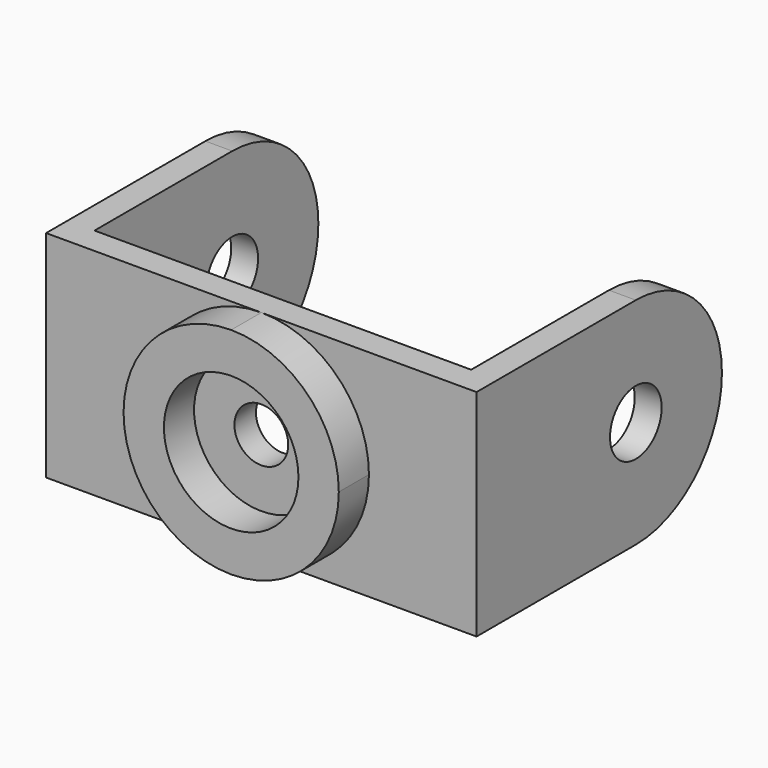
from build123d import *

# Parameters (mm, degrees)
F0_R     = 12.5
F1_DEPTH = 7
F0_R_2   = 5
F2_DEPTH = 5
F3_R     = 6
F4_DEPTH = 5
F5_R     = 6
F6_DEPTH = 5


with BuildPart() as f1:
    # F0 (on Front) → F1 (new body)
    with BuildSketch(Plane.XZ):
        with BuildLine():
            ThreePointArc((20, 0), (14.142136, 14.142136), (0, 20))
            ThreePointArc((0, 20), (-20, 0), (0, -20))
            ThreePointArc((0, -20), (14.142136, -14.142136), (20, 0))
        make_face()
        Circle(F0_R, mode=Mode.SUBTRACT)
    extrude(amount=F1_DEPTH)

    # F0 (on Front) → F2 (join)
    with BuildSketch(Plane.XZ):
        with BuildLine():
            ThreePointArc((0, -20), (-20, 0), (0, 20))
            Line((0, 20), (-40, 20))
            Line((-40, 20), (-40, -20))
            Line((-40, -20), (0, -20))
        make_face()
        with BuildLine():
            ThreePointArc((20, 0), (14.142136, 14.142136), (0, 20))
            ThreePointArc((0, 20), (-20, 0), (0, -20))
            ThreePointArc((0, -20), (14.142136, -14.142136), (20, 0))
        make_face()
        Circle(F0_R, mode=Mode.SUBTRACT)
        Circle(F0_R)
        Circle(F0_R_2, mode=Mode.SUBTRACT)
        with BuildLine():
            Line((40, -20), (40, 20))
            Line((40, 20), (0, 20))
            ThreePointArc((0, 20), (14.142136, 14.142136), (20, 0))
            ThreePointArc((20, 0), (14.142136, -14.142136), (0, -20))
            Line((0, -20), (40, -20))
        make_face()
    extrude(amount=-F2_DEPTH)

    # F3 (on face) → F4 (join)
    with BuildSketch(Plane.YZ.offset(40)):
        with BuildLine():
            Line((5, 20), (5, -20))
            Line((5, -20), (37, -20))
            ThreePointArc((37, -20), (57, 0), (37, 20))
            Line((37, 20), (5, 20))
        make_face()
        with Locations((37, 0)):
            Circle(F3_R, mode=Mode.SUBTRACT)
    extrude(amount=-F4_DEPTH)

    # F5 (on face) → F6 (join)
    with BuildSketch(Plane(origin=(-40, 0, 0), x_dir=(0, -1, 0), z_dir=(-1, 0, 0))):
        with BuildLine():
            Line((-5, -20), (-5, 20))
            Line((-5, 20), (-37, 20))
            ThreePointArc((-37, 20), (-57, 0), (-37, -20))
            Line((-37, -20), (-5, -20))
        make_face()
        with Locations((-37, 0)):
            Circle(F5_R, mode=Mode.SUBTRACT)
    extrude(amount=-F6_DEPTH)


solid = f1.part
